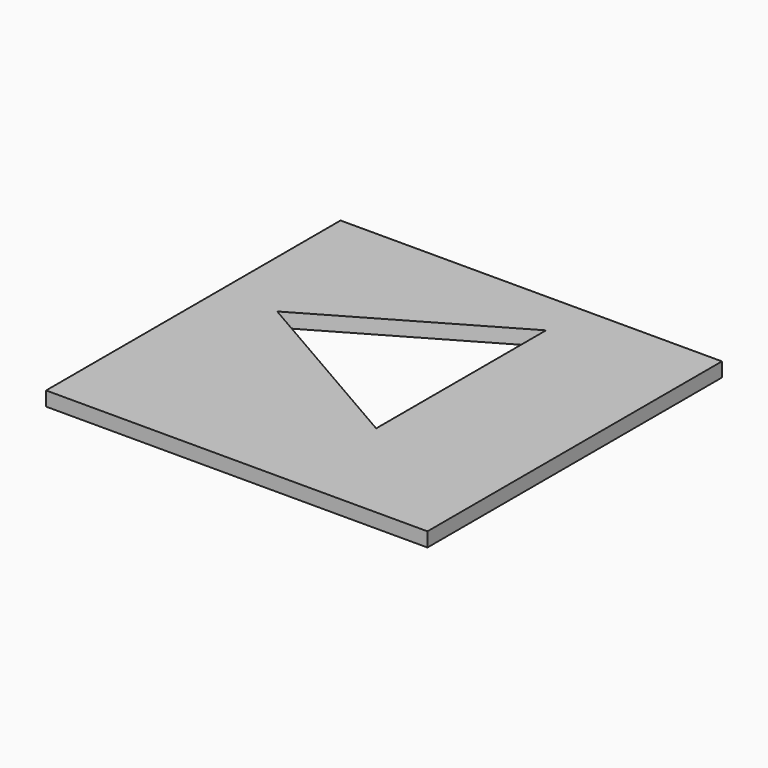
from build123d import *

# Parameters (mm, degrees)
F0_W     = 80.220338
F0_H     = 77.419305
F1_DEPTH = 3


with BuildPart() as f1:
    # F0 (on Top) → F1 (new body)
    with BuildSketch(Plane.XY):
        with Locations((-27.746687, -6.944012)):
            Rectangle(F0_W, F0_H)
        Polygon((-55.766197, 0), (-17.088549, 22.33055), (-17.088549, -22.33055), align=None, mode=Mode.SUBTRACT)
    extrude(amount=F1_DEPTH)


solid = f1.part
